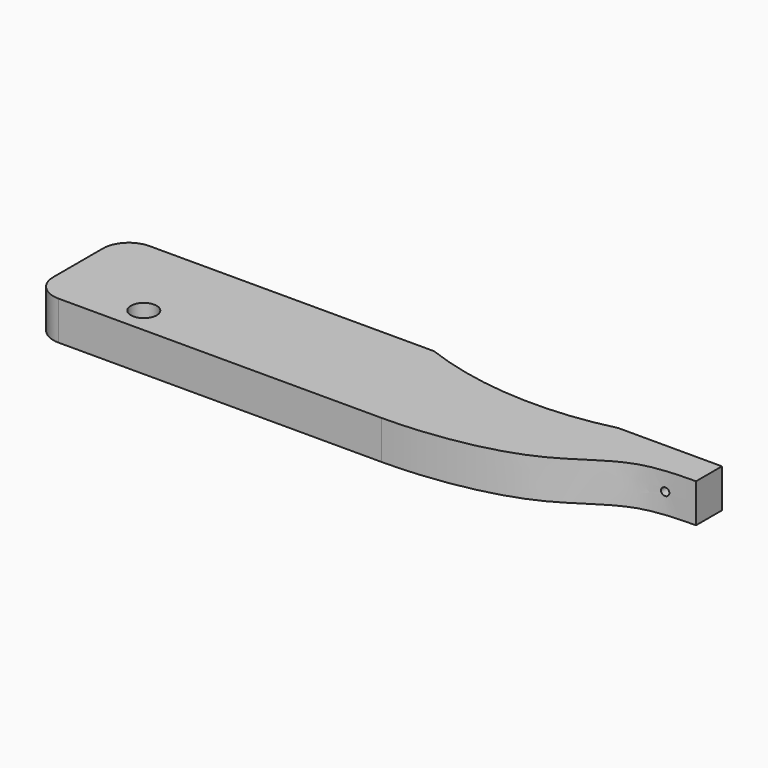
from build123d import *

# Parameters (mm, degrees)
F0_R     = 12.7
F1_DEPTH = 38.1
F2_DEPTH = 38.1
F3_R     = 3.81
F4_DEPTH = 44.45


with BuildPart() as f1:
    # F0 (on Top) → F1 (new body)
    with BuildSketch(Plane.XY):
        with BuildLine():
            ThreePointArc((-298.45, -30.48), (-291.0105122421, -48.4405122421), (-273.05, -55.88))
            Line((-273.05, -55.88), (44.45, -55.88))
            add(Edge.make_bspline(
                [(298.45, 12.7), (287.3746065868, 12.2425019897), (237.2362744318, 13.75434495), (180.5553043181, -42.0538384419), (88.1868358472, -55.88), (44.45, -55.88)],
                knots=[0, 0, 0, 0, 0.2625301209, 0.5825371407, 1, 1, 1, 1], degree=3))
            Line((298.45, 12.7), (298.45, 44.45))
            Line((298.45, 44.45), (196.6498470859, 44.45))
            ThreePointArc((196.6498470859, 44.45), (100.6366870799, 35.7928419142), (6.35, 55.88))
            Line((6.35, 55.88), (-273.05, 55.88))
            ThreePointArc((-273.05, 55.88), (-291.0105122421, 48.4405122421), (-298.45, 30.48))
            Line((-298.45, 30.48), (-298.45, -30.48))
        make_face()
        with Locations((-209.55, -30.48)):
            Circle(F0_R, mode=Mode.SUBTRACT)
    extrude(amount=F1_DEPTH)

    # F0 (on Top) → F2 (cut)
    with BuildSketch(Plane.XY):
        with Locations((-209.55, -30.48)):
            Circle(F0_R)
    extrude(amount=F2_DEPTH, mode=Mode.SUBTRACT)

    # F3 (on Front) → F4 (cut)
    with BuildSketch(Plane.XZ):
        with Locations((269.24, 20.0763624161)):
            Circle(F3_R)
    extrude(amount=-F4_DEPTH, mode=Mode.SUBTRACT)


solid = f1.part
